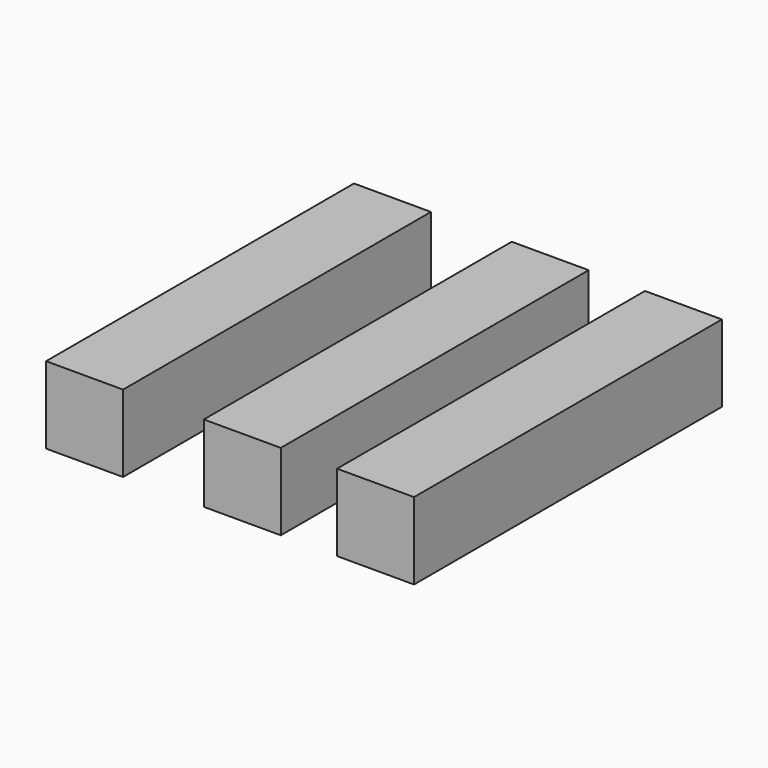
from build123d import *

# Parameters (mm, degrees)
F0_W     = 25.4
F0_H     = 25.4
F1_DEPTH = 127


with BuildPart() as f1:
    # F0 (on Front) → F1 (new body)
    with BuildSketch(Plane.XZ):
        Rectangle(F0_W, F0_H)
        with Locations((43.973436, 0)):
            Rectangle(F0_W, F0_H)
        with Locations((-52.057658, 0)):
            Rectangle(F0_W, F0_H)
    extrude(amount=-F1_DEPTH)


solid = f1.part
